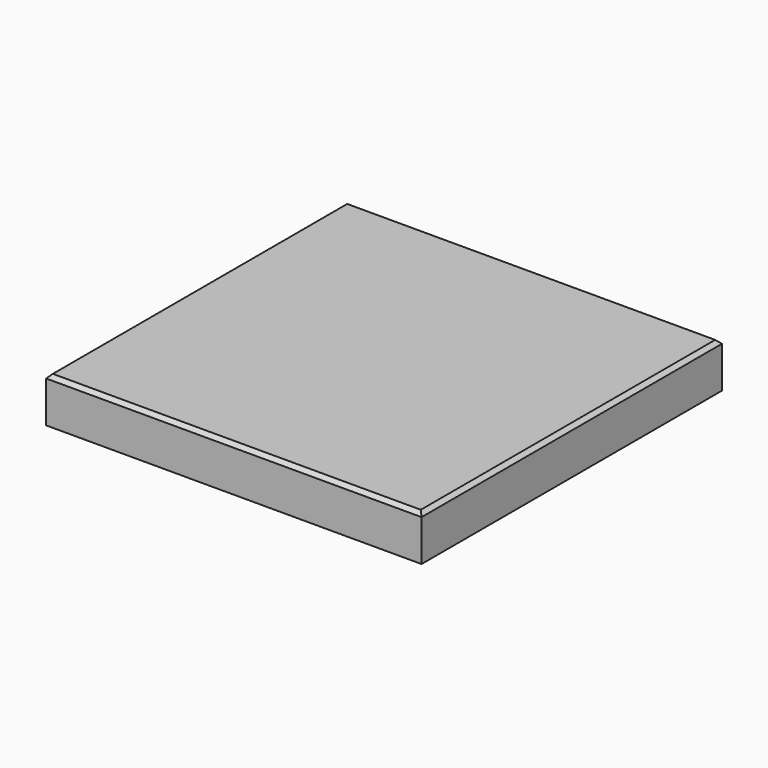
from build123d import *

# Parameters (mm, degrees)
F0_W     = 100
F0_H     = 100
F1_DEPTH = 12
F2_SIZE  = 1
F3_T     = -1.5


with BuildPart() as f1:
    # F0 (on Top) → F1 (new body)
    with BuildSketch(Plane.XY):
        with Locations((50, -50)):
            Rectangle(F0_W, F0_H)
    extrude(amount=F1_DEPTH)

    # F2
    f2_edges = [f1.edges().sort_by_distance(p)[0] for p in [
        (0, -50, 12),
        (50, -100, 12),
        (100, -50, 12),
        (50, 0, 12),
    ]]
    chamfer(f2_edges, length=F2_SIZE)

    # F3
    f3_openings = [f1.faces().sort_by_distance(p)[0] for p in [
        (50, -50, 0),
    ]]
    offset(amount=F3_T, openings=f3_openings, kind=Kind.INTERSECTION)


solid = f1.part
